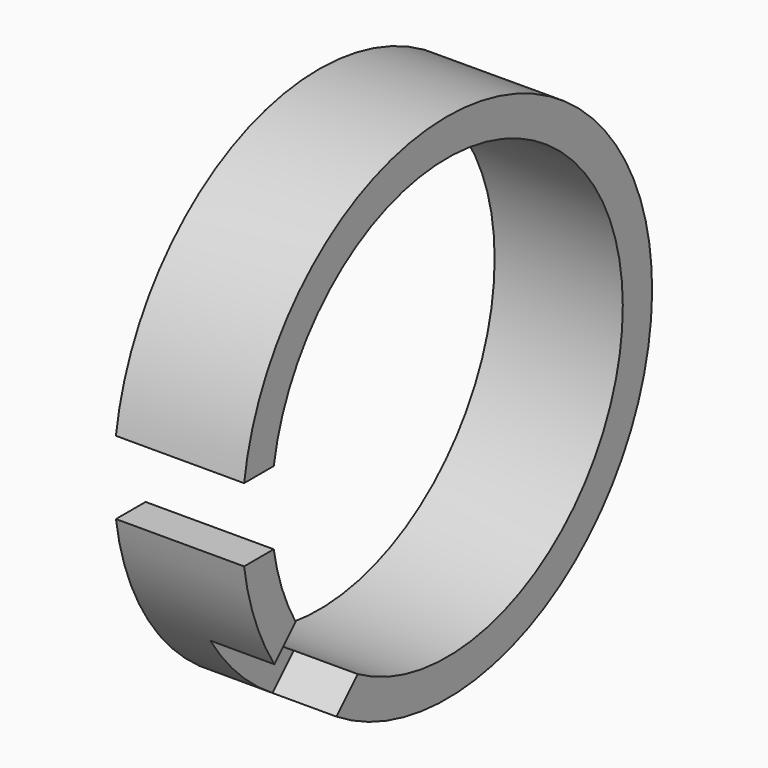
from build123d import *

# Parameters (mm, degrees)
F0_W     = 44.45
F0_H     = 12.7
F2_W     = 31.75
F2_H     = 25.4
F3_DEPTH = 88.901
F5_W     = 22.225
F5_H     = 38.1
F6_DEPTH = 125.0798323142


with BuildPart() as f1:
    # F0 (on Front) → F1 (revolve)
    with BuildSketch(Plane.XZ):
        with Locations((0, 82.55)):
            Rectangle(F0_W, F0_H)
    revolve(axis=Axis((0, 0, 0), (1, 0, 0)))

    # F2 (on Front) → F3 (cut, through all)
    with BuildSketch(Plane.XZ):
        with Locations((15.875, 0)):
            Rectangle(F2_W, F2_H)
        with Locations((-15.875, 0)):
            Rectangle(F2_W, F2_H)
    extrude(amount=F3_DEPTH, mode=Mode.SUBTRACT)

    # F5 (on face) → F6 (cut, through all)
    with BuildSketch(Plane(origin=(0, 0, 0), x_dir=(1, 0, 0), z_dir=(0, -0.7071067812, -0.7071067812))):
        with Locations((11.1125, 0)):
            Rectangle(F5_W, F5_H)
    extrude(amount=F6_DEPTH, mode=Mode.SUBTRACT)


solid = f1.part
